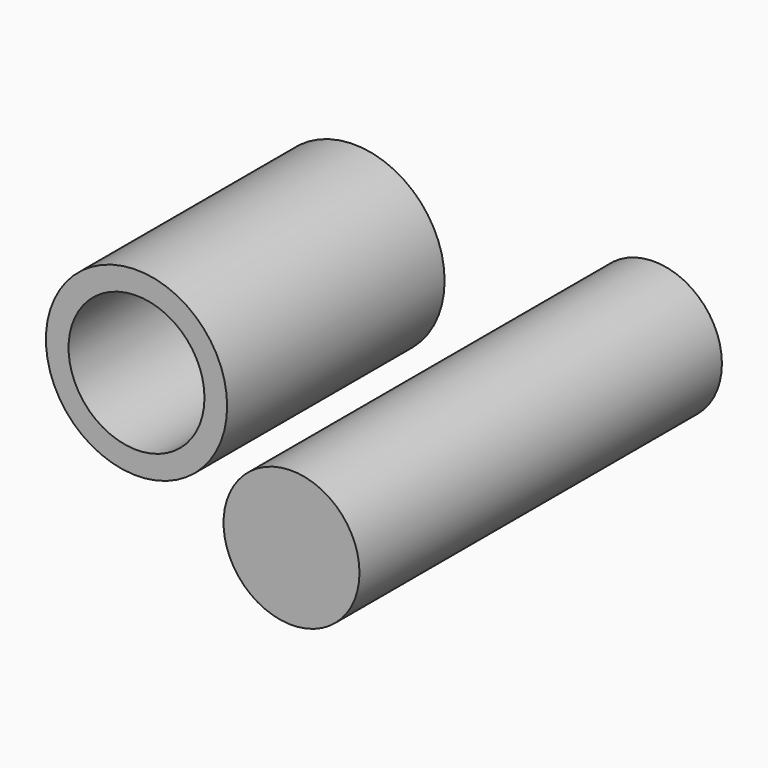
from build123d import *

# Parameters (mm, degrees)
F0_R      = 12.7
F0_R_2    = 9.525
F1_DEPTH  = 38.1
F1_FACE_R = 9.525
F2_DEPTH  = 25.4


with BuildPart() as f1:
    # F0 (on Front) → F1 (new body)
    with BuildSketch(Plane.XZ):
        with Locations((-63.415957, 41.379695)):
            Circle(F0_R)
        with Locations((-63.415957, 41.379695)):
            Circle(F0_R_2, mode=Mode.SUBTRACT)
        with Locations((-21.372269, 43.784325)):
            Circle(F0_R_2)
    extrude(amount=F1_DEPTH)

    # F1_face (on face) → F2 (join)
    with BuildSketch(Plane(origin=(-21.372269, -38.1, 43.784325), x_dir=(1, 0, 0), z_dir=(0, -1, 0))):
        Circle(F1_FACE_R)
    extrude(amount=F2_DEPTH)


solid = f1.part
